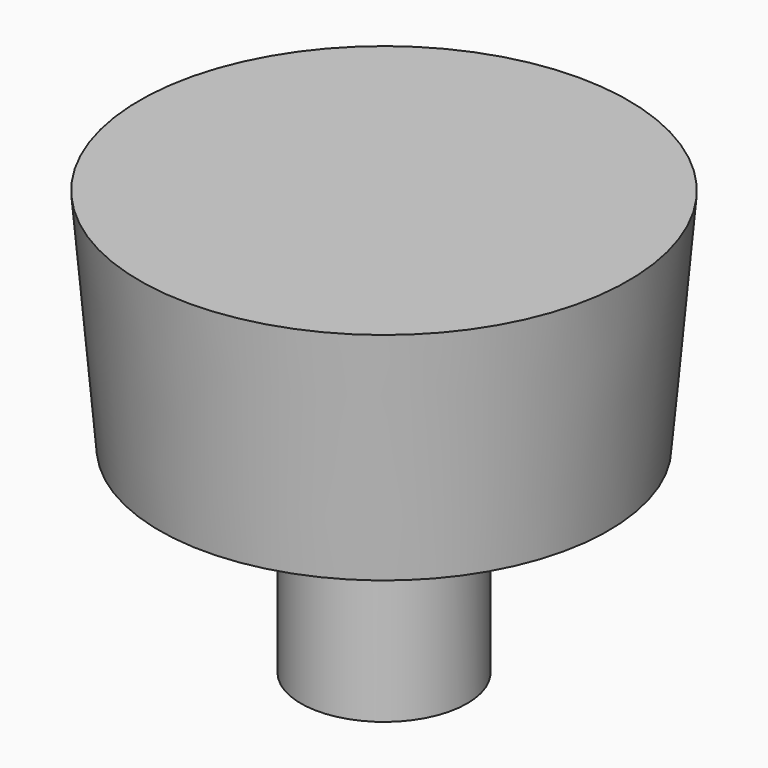
from build123d import *

# Parameters (mm, degrees)
F0_R     = 6.3
F1_DEPTH = 15


with BuildPart() as f1:
    # F0 (on Top) → F1 (new body)
    with BuildSketch(Plane.XY):
        Circle(F0_R)
    extrude(amount=F1_DEPTH)

    # F2 (on Right) → F3 (revolve)
    with BuildSketch(Plane.YZ):
        Polygon((0, 32.145078), (0, 15), (17, 15), (18.5, 32.145078), align=None)
    revolve(axis=Axis((0, 0, 7.5), (0, 0, 1)))


solid = f1.part
